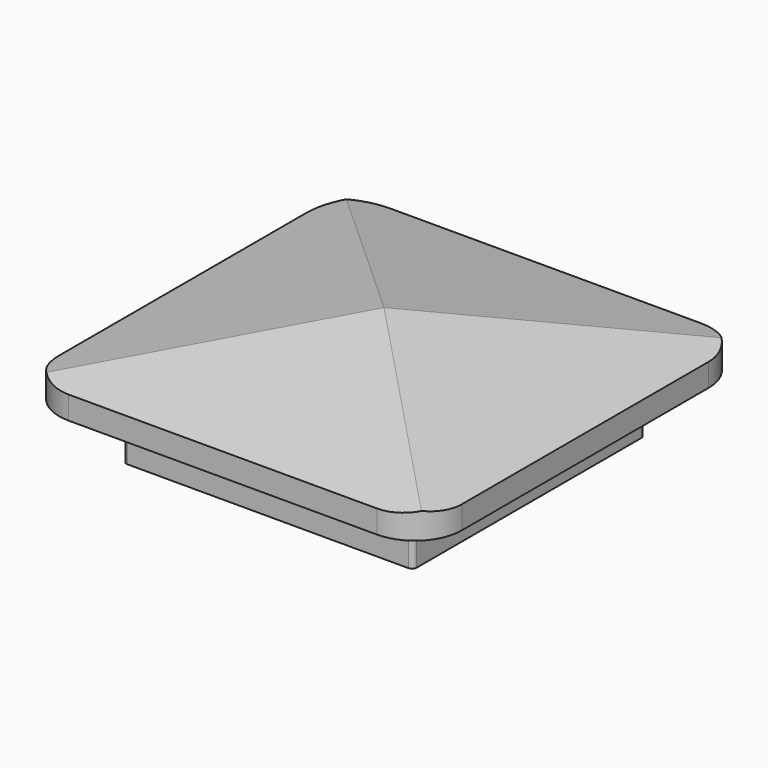
from build123d import *

# Parameters (mm, degrees)
F0_W      = 92
F0_H      = 92
F1_DEPTH  = 5.25
F1_FACE_W = 92
F1_FACE_H = 92
F5_R      = 10.75
F6_W      = 66.25
F6_H      = 66.25
F7_DEPTH  = 13
F8_R      = 1


with BuildPart() as f1:
    # F0 (on Top) → F1 (new body)
    with BuildSketch(Plane.XY):
        Rectangle(F0_W, F0_H)
    extrude(amount=F1_DEPTH)

    # F1_face (on face) → F4 section 0
    with BuildSketch(Plane.XY.offset(5.25), mode=Mode.PRIVATE) as f4_s0:
        Rectangle(F1_FACE_W, F1_FACE_H)
    loft([f4_s0.sketch, Vertex(0, 0, 15.5)])

    # F5
    f5_edges = [f1.edges().sort_by_distance(p)[0] for p in [
        (-46, -46, 2.625),
        (46, -46, 2.625),
        (46, 46, 2.625),
        (-46, 46, 2.625),
    ]]
    fillet(f5_edges, radius=F5_R)

    # F6 (on face) → F7 (join)
    with BuildSketch(Plane(origin=(0, 0, 0), x_dir=(1, 0, 0), z_dir=(0, 0, -1))):
        Rectangle(F6_W, F6_H)
    extrude(amount=F7_DEPTH)

    # F8
    f8_edges = [f1.edges().sort_by_distance(p)[0] for p in [
        (33.125, 33.125, -6.5),
        (-33.125, 33.125, -6.5),
        (-33.125, -33.125, -6.5),
        (33.125, -33.125, -6.5),
    ]]
    fillet(f8_edges, radius=F8_R)


solid = f1.part
